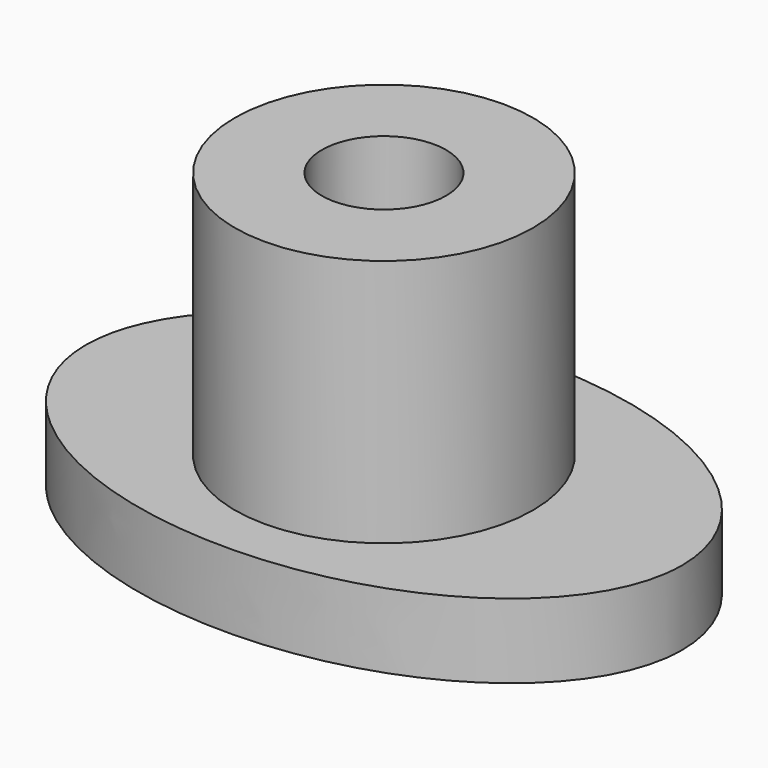
from build123d import *

# Parameters (mm, degrees)
F0_R     = 9.525
F0_R_2   = 3.96875
F1_DEPTH = 4.7625
F2_DEPTH = 20.6375


with BuildPart() as f1:
    # F0 (on Top) → F1 (new body)
    with BuildSketch(Plane.XY):
        with BuildLine():
            add(Edge.make_bspline(
                [(19.05, 0), (19.05, 21.997045), (-9.525, 10.998523), (-38.1, 0), (-9.525, -10.998523), (19.05, -21.997045), (19.05, 0)],
                knots=[0, 0, 0, 2.094395, 2.094395, 4.18879, 4.18879, 6.283185, 6.283185, 6.283185], degree=2, weights=[1, 0.5, 1, 0.5, 1, 0.5, 1]))
        make_face()
        Circle(F0_R, mode=Mode.SUBTRACT)
        Circle(F0_R)
        Circle(F0_R_2, mode=Mode.SUBTRACT)
    extrude(amount=F1_DEPTH)

    # F0 (on Top) → F2 (join)
    with BuildSketch(Plane.XY):
        Circle(F0_R)
        Circle(F0_R_2, mode=Mode.SUBTRACT)
    extrude(amount=F2_DEPTH)


solid = f1.part
